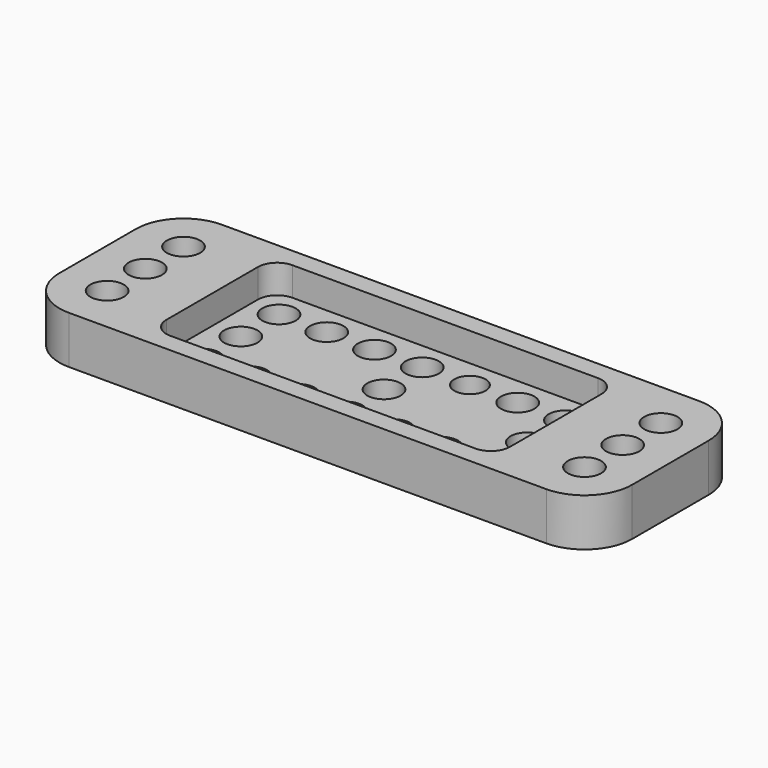
from build123d import *

# Parameters (mm, degrees)
F0_W     = 36
F0_H     = 16
F0_R     = 1.75
F0_R_2   = 1.6342219217
F1_DEPTH = 2
F0_W_2   = 60
F0_H_2   = 20
F2_DEPTH = 3
F3_W     = 60
F3_H     = 20
F3_W_2   = 36
F3_H_2   = 16
F4_DEPTH = 2
F5_DEPTH = 25
F6_R     = 5
F7_R     = 2


with BuildPart() as f1:
    # F0 (on Top) → F1 (new body)
    with BuildSketch(Plane.XY):
        with Locations((-6.9101825356, 29.7833877802)):
            Rectangle(F0_W, F0_H)
        with Locations((-21.9101825356, 24.7833877802)):
            Circle(F0_R, mode=Mode.SUBTRACT)
        with Locations((-16.9101825356, 24.7833877802)):
            Circle(F0_R, mode=Mode.SUBTRACT)
        with Locations((-11.9101825356, 24.7833877802)):
            Circle(F0_R, mode=Mode.SUBTRACT)
        with Locations((-6.9101825356, 24.7833877802)):
            Circle(F0_R, mode=Mode.SUBTRACT)
        with Locations((-1.9101825356, 24.7833877802)):
            Circle(F0_R, mode=Mode.SUBTRACT)
        with Locations((3.0898174644, 24.7833877802)):
            Circle(F0_R, mode=Mode.SUBTRACT)
        with Locations((8.0898174644, 24.7833877802)):
            Circle(F0_R, mode=Mode.SUBTRACT)
        with Locations((-21.9101825356, 29.7833877802)):
            Circle(F0_R, mode=Mode.SUBTRACT)
        with Locations((-21.9101825356, 34.7833877802)):
            Circle(F0_R, mode=Mode.SUBTRACT)
        with Locations((-16.9101825356, 34.7833877802)):
            Circle(F0_R, mode=Mode.SUBTRACT)
        with Locations((-11.9101825356, 34.7833877802)):
            Circle(F0_R, mode=Mode.SUBTRACT)
        with Locations((-6.9101825356, 29.7833877802)):
            Circle(F0_R, mode=Mode.SUBTRACT)
        with Locations((8.0898174644, 29.7833877802)):
            Circle(F0_R, mode=Mode.SUBTRACT)
        with Locations((-6.9101825356, 34.7833877802)):
            Circle(F0_R, mode=Mode.SUBTRACT)
        with Locations((-1.9101825356, 34.7833877802)):
            Circle(F0_R_2, mode=Mode.SUBTRACT)
        with Locations((3.0898174644, 34.7833877802)):
            Circle(F0_R, mode=Mode.SUBTRACT)
        with Locations((8.0898174644, 34.7833877802)):
            Circle(F0_R, mode=Mode.SUBTRACT)
    extrude(amount=F1_DEPTH)

    # F0 (on Top) → F2 (join)
    with BuildSketch(Plane.XY):
        with Locations((-6.9101825356, 29.7833877802)):
            Rectangle(F0_W_2, F0_H_2)
        with Locations((-6.9101825356, 29.7833877802)):
            Rectangle(F0_W, F0_H, mode=Mode.SUBTRACT)
        with BuildLine():
            ThreePointArc((-30.2518701405, 27.2833877802), (-31.9101825356, 21.7833877802), (-33.5684949308, 27.2833877802))
            ThreePointArc((-33.5684949308, 27.2833877802), (-34.9101825356, 29.7833877802), (-33.5684949308, 32.2833877802))
            ThreePointArc((-33.5684949308, 32.2833877802), (-31.9101825356, 37.7833877802), (-30.2518701405, 32.2833877802))
            ThreePointArc((-30.2518701405, 32.2833877802), (-28.9101825356, 29.7833877802), (-30.2518701405, 27.2833877802))
        make_face(mode=Mode.SUBTRACT)
        with BuildLine():
            ThreePointArc((19.7481298595, 27.2833877802), (18.0898174644, 21.7833877802), (16.4315050692, 27.2833877802))
            ThreePointArc((16.4315050692, 27.2833877802), (15.0898174644, 29.7833877802), (16.4315050692, 32.2833877802))
            ThreePointArc((16.4315050692, 32.2833877802), (18.0898174644, 37.7833877802), (19.7481298595, 32.2833877802))
            ThreePointArc((19.7481298595, 32.2833877802), (21.0898174644, 29.7833877802), (19.7481298595, 27.2833877802))
        make_face(mode=Mode.SUBTRACT)
    extrude(amount=F2_DEPTH)

    # F3 (on face) → F4 (join)
    with BuildSketch(Plane.XY.offset(3)):
        with Locations((-6.9101825356, 29.7833877802)):
            Rectangle(F3_W, F3_H)
        with Locations((-6.9101825356, 29.7833877802)):
            Rectangle(F3_W_2, F3_H_2, mode=Mode.SUBTRACT)
        with BuildLine():
            ThreePointArc((-33.5684949308, 32.2833877802), (-31.9101825356, 37.7833877802), (-30.2518701405, 32.2833877802))
            ThreePointArc((-30.2518701405, 32.2833877802), (-28.9101825356, 29.7833877802), (-30.2518701405, 27.2833877802))
            ThreePointArc((-30.2518701405, 27.2833877802), (-31.9101825356, 21.7833877802), (-33.5684949308, 27.2833877802))
            ThreePointArc((-33.5684949308, 27.2833877802), (-34.9101825356, 29.7833877802), (-33.5684949308, 32.2833877802))
        make_face(mode=Mode.SUBTRACT)
        with BuildLine():
            ThreePointArc((16.4315050692, 32.2833877802), (18.0898174644, 37.7833877802), (19.7481298595, 32.2833877802))
            ThreePointArc((19.7481298595, 32.2833877802), (21.0898174644, 29.7833877802), (19.7481298595, 27.2833877802))
            ThreePointArc((19.7481298595, 27.2833877802), (18.0898174644, 21.7833877802), (16.4315050692, 27.2833877802))
            ThreePointArc((16.4315050692, 27.2833877802), (15.0898174644, 29.7833877802), (16.4315050692, 32.2833877802))
        make_face(mode=Mode.SUBTRACT)
        with BuildLine():
            ThreePointArc((19.7481298595, 27.2833877802), (21.0898174644, 29.7833877802), (19.7481298595, 32.2833877802))
            ThreePointArc((19.7481298595, 32.2833877802), (18.0898174644, 37.7833877802), (16.4315050692, 32.2833877802))
            ThreePointArc((16.4315050692, 32.2833877802), (15.0898174644, 29.7833877802), (16.4315050692, 27.2833877802))
            ThreePointArc((16.4315050692, 27.2833877802), (18.0898174644, 21.7833877802), (19.7481298595, 27.2833877802))
        make_face()
        with BuildLine():
            ThreePointArc((-30.2518701405, 27.2833877802), (-28.9101825356, 29.7833877802), (-30.2518701405, 32.2833877802))
            ThreePointArc((-30.2518701405, 32.2833877802), (-31.9101825356, 37.7833877802), (-33.5684949308, 32.2833877802))
            ThreePointArc((-33.5684949308, 32.2833877802), (-34.9101825356, 29.7833877802), (-33.5684949308, 27.2833877802))
            ThreePointArc((-33.5684949308, 27.2833877802), (-31.9101825356, 21.7833877802), (-30.2518701405, 27.2833877802))
        make_face()
    extrude(amount=F4_DEPTH)

    # F0 (on Top) → F5 (cut)
    with BuildSketch(Plane.XY):
        with Locations((-31.9101825356, 34.7833877802)):
            Circle(F0_R)
        with Locations((-31.9101825356, 29.7833877802)):
            Circle(F0_R)
        with Locations((-31.9101825356, 24.7833877802)):
            Circle(F0_R)
        with Locations((18.0898174644, 24.7833877802)):
            Circle(F0_R)
        with Locations((18.0898174644, 34.7833877802)):
            Circle(F0_R)
        with Locations((18.0898174644, 29.7833877802)):
            Circle(F0_R)
    extrude(amount=F5_DEPTH, mode=Mode.SUBTRACT)

    # F6
    f6_edges = [f1.edges().sort_by_distance(p)[0] for p in [
        (-36.910183, 39.783388, 2.5),
        (-36.910183, 19.783388, 2.5),
        (23.089817, 19.783388, 2.5),
        (23.089817, 39.783388, 2.5),
    ]]
    fillet(f6_edges, radius=F6_R)

    # F7
    f7_edges = [f1.edges().sort_by_distance(p)[0] for p in [
        (-24.910183, 37.783388, 3.5),
        (11.089817, 21.783388, 3.5),
        (11.089817, 37.783388, 3.5),
        (-24.910183, 21.783388, 3.5),
    ]]
    fillet(f7_edges, radius=F7_R)


solid = f1.part
